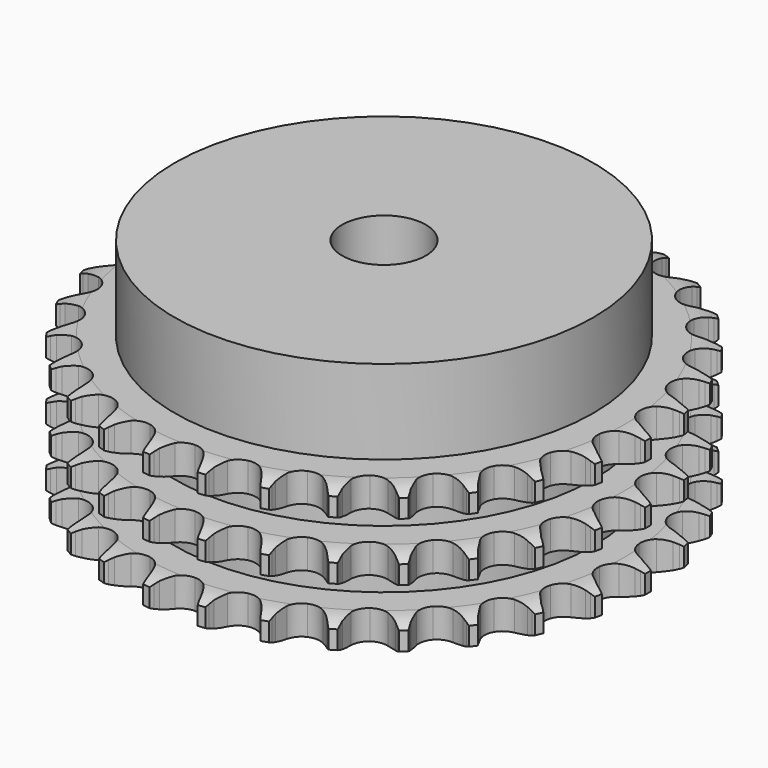
from build123d import *

# Parameters (mm, degrees)
PAD_DEPTH         = 34.9
SKETCH001_R       = 50
PAD001_DEPTH      = 55
SKETCH002_R       = 10
POCKET_DEPTH      = 0.001
POCKET_DEPTH_BACK = 55.001


with BuildPart() as part:
    # Sprocket → Pad (new body)
    with BuildSketch(Plane.XY):
        with BuildLine():
            ThreePointArc((-6.747514, 64.19831), (-5.953185, 63.151221), (-5.370742, 61.973039))
            Line((-5.370742, 61.973039), (-4.955769, 60.884432))
            ThreePointArc((-4.955769, 60.884432), (-4.297005, 59.465248), (-3.445613, 58.152548))
            ThreePointArc((-3.445613, 58.152548), (-1.925065, 56.887921), (0, 56.434629))
            ThreePointArc((0, 56.434629), (1.925065, 56.887921), (3.445613, 58.152548))
            ThreePointArc((3.445613, 58.152548), (4.297005, 59.465248), (4.955769, 60.884432))
            Line((4.955769, 60.884432), (5.370742, 61.973039))
            ThreePointArc((5.370742, 61.973039), (5.953185, 63.151221), (6.747514, 64.19831))
            ThreePointArc((6.747514, 64.19831), (7.306783, 63.008952), (7.631541, 61.735419))
            Line((7.631541, 61.735419), (7.811112, 60.584324))
            ThreePointArc((7.811112, 60.584324), (8.160415, 59.059188), (8.720276, 57.598159))
            ThreePointArc((8.720276, 57.598159), (9.944666, 56.045027), (11.733419, 55.201397))
            ThreePointArc((11.733419, 55.201397), (13.710661, 55.24454), (15.460913, 56.165392))
            Line((15.460913, 56.165392), (17.506058, 58.523599))
            ThreePointArc((17.506058, 58.523599), (17.809357, 59.021153), (18.138297, 59.502139))
            ThreePointArc((18.138297, 59.502139), (18.952971, 60.533479), (19.947644, 61.392536))
            ThreePointArc((19.947644, 61.392536), (20.24741, 60.11289), (20.300289, 58.799666))
            Line((20.300289, 58.799666), (20.23661, 57.636389))
            ThreePointArc((20.23661, 57.636389), (20.261186, 56.071957), (20.505048, 54.526453))
            ThreePointArc((20.505048, 54.526453), (21.379768, 52.752696), (22.954031, 51.555599))
            ThreePointArc((22.954031, 51.555599), (24.897036, 51.186708), (26.800496, 51.723539))
            Line((26.800496, 51.723539), (29.291249, 53.605004))
            ThreePointArc((29.291249, 53.605004), (29.691367, 54.028626), (30.113122, 54.430711))
            ThreePointArc((30.113122, 54.430711), (31.124421, 55.270133), (32.275966, 55.903613))
            ThreePointArc((32.275966, 55.903613), (32.303129, 54.589606), (32.081817, 53.294084))
            Line((32.081817, 53.294084), (31.77767, 52.169468))
            ThreePointArc((31.77767, 52.169468), (31.476446, 50.634113), (31.393651, 49.07168))
            ThreePointArc((31.393651, 49.07168), (31.880471, 47.15482), (33.171442, 45.656574))
            ThreePointArc((33.171442, 45.656574), (34.995291, 44.89177), (36.96877, 45.021119))
            Line((36.96877, 45.021119), (39.796272, 46.343613))
            ThreePointArc((39.796272, 46.343613), (40.275723, 46.674788), (40.77186, 46.980399))
            ThreePointArc((40.77186, 46.980399), (41.935584, 47.591217), (43.193674, 47.971434))
            ThreePointArc((43.193674, 47.971434), (42.947045, 46.680494), (42.461216, 45.459296))
            Line((42.461216, 45.459296), (41.929894, 44.422491))
            ThreePointArc((41.929894, 44.422491), (41.316034, 42.983315), (40.9102, 41.472239))
            ThreePointArc((40.9102, 41.472239), (40.987845, 39.496051), (41.939102, 37.762137))
            ThreePointArc((41.939102, 37.762137), (43.564084, 36.634847), (45.52133, 36.35106))
            Line((45.52133, 36.35106), (48.562007, 37.056783))
            ThreePointArc((48.562007, 37.056783), (49.099836, 37.281038), (49.648671, 37.476818))
            ThreePointArc((49.648671, 37.476818), (50.913962, 37.832336), (52.22361, 37.942674))
            ThreePointArc((52.22361, 37.942674), (51.713969, 36.73122), (50.984855, 35.637718))
            Line((50.984855, 35.637718), (50.249581, 34.734038))
            ThreePointArc((50.249581, 34.734038), (49.349913, 33.45394), (48.638777, 32.060262))
            ThreePointArc((48.638777, 32.060262), (48.303853, 30.111116), (48.873822, 28.217314))
            ThreePointArc((48.873822, 28.217314), (50.228917, 26.776806), (52.08439, 26.092286))
            Line((52.08439, 26.092286), (55.205349, 26.150395))
            ThreePointArc((55.205349, 26.150395), (55.77805, 26.257929), (56.355597, 26.335321))
            ThreePointArc((56.355597, 26.335321), (57.667154, 26.420001), (58.971124, 26.255636))
            ThreePointArc((58.971124, 26.255636), (58.220745, 25.176616), (57.280212, 24.258601))
            Line((57.280212, 24.258601), (56.373119, 23.52754))
            ThreePointArc((56.373119, 23.52754), (55.226964, 22.462467), (54.241607, 21.247098))
            ThreePointArc((54.241607, 21.247098), (53.50875, 19.41018), (53.672521, 17.439259))
            ThreePointArc((53.672521, 17.439259), (54.698506, 15.748489), (56.371113, 14.693153))
            Line((56.371113, 14.693153), (59.435953, 14.101108))
            ThreePointArc((59.435953, 14.101108), (60.018496, 14.087221), (60.599513, 14.042844))
            ThreePointArc((60.599513, 14.042844), (61.900016, 13.852985), (63.141318, 13.421101))
            ThreePointArc((63.141318, 13.421101), (62.182995, 12.521673), (61.072149, 11.819267))
            Line((61.072149, 11.819267), (60.032882, 11.292776))
            ThreePointArc((60.032882, 11.292776), (58.690332, 10.489277), (57.473818, 9.505334))
            ThreePointArc((57.473818, 9.505334), (56.375059, 7.860926), (56.125474, 5.899025))
            ThreePointArc((56.125474, 5.899025), (56.777507, 4.031888), (58.194147, 2.651859))
            Line((58.194147, 2.651859), (61.06892, 1.435536))
            ThreePointArc((61.06892, 1.435536), (61.635846, 1.300834), (62.19494, 1.136626))
            ThreePointArc((62.19494, 1.136626), (63.427549, 0.680527), (64.551932, 0))
            ThreePointArc((64.551932, 0), (63.427549, -0.680527), (62.19494, -1.136626))
            Line((62.19494, -1.136626), (61.06892, -1.435536))
            ThreePointArc((61.06892, -1.435536), (59.588651, -1.942345), (58.194147, -2.651859))
            ThreePointArc((58.194147, -2.651859), (56.777507, -4.031888), (56.125474, -5.899025))
            ThreePointArc((56.125474, -5.899025), (56.375059, -7.860926), (57.473818, -9.505334))
            Line((57.473818, -9.505334), (60.032882, -11.292776))
            ThreePointArc((60.032882, -11.292776), (60.559414, -11.542405), (61.072149, -11.819267))
            ThreePointArc((61.072149, -11.819267), (62.182995, -12.521673), (63.141318, -13.421101))
            ThreePointArc((63.141318, -13.421101), (61.900016, -13.852985), (60.599513, -14.042844))
            Line((60.599513, -14.042844), (59.435953, -14.101108))
            ThreePointArc((59.435953, -14.101108), (57.88266, -14.289077), (56.371113, -14.693153))
            ThreePointArc((56.371113, -14.693153), (54.698506, -15.748489), (53.672521, -17.439259))
            ThreePointArc((53.672521, -17.439259), (53.50875, -19.41018), (54.241607, -21.247098))
            Line((54.241607, -21.247098), (56.373119, -23.52754))
            ThreePointArc((56.373119, -23.52754), (56.836244, -23.881186), (57.280212, -24.258601))
            ThreePointArc((57.280212, -24.258601), (58.220745, -25.176616), (58.971124, -26.255636))
            ThreePointArc((58.971124, -26.255636), (57.667154, -26.420001), (56.355597, -26.335321))
            Line((56.355597, -26.335321), (55.205349, -26.150395))
            ThreePointArc((55.205349, -26.150395), (53.646919, -26.011308), (52.08439, -26.092286))
            ThreePointArc((52.08439, -26.092286), (50.228917, -26.776806), (48.873822, -28.217314))
            ThreePointArc((48.873822, -28.217314), (48.303853, -30.111116), (48.638777, -32.060262))
            Line((48.638777, -32.060262), (50.249581, -34.734038))
            ThreePointArc((50.249581, -34.734038), (50.629058, -35.176244), (50.984855, -35.637718))
            ThreePointArc((50.984855, -35.637718), (51.713969, -36.73122), (52.22361, -37.942674))
            ThreePointArc((52.22361, -37.942674), (50.913962, -37.832336), (49.648671, -37.476818))
            Line((49.648671, -37.476818), (48.562007, -37.056783))
            ThreePointArc((48.562007, -37.056783), (47.06655, -36.59672), (45.52133, -36.35106))
            ThreePointArc((45.52133, -36.35106), (43.564084, -36.634847), (41.939102, -37.762137))
            ThreePointArc((41.939102, -37.762137), (40.987845, -39.496051), (40.9102, -41.472239))
            Line((40.9102, -41.472239), (41.929894, -44.422491))
            ThreePointArc((41.929894, -44.422491), (42.209139, -44.933932), (42.461216, -45.459296))
            ThreePointArc((42.461216, -45.459296), (42.947045, -46.680494), (43.193674, -47.971434))
            ThreePointArc((43.193674, -47.971434), (41.935584, -47.591217), (40.77186, -46.980399))
            Line((40.77186, -46.980399), (39.796272, -46.343613))
            ThreePointArc((39.796272, -46.343613), (38.429146, -45.58268), (36.96877, -45.021119))
            ThreePointArc((36.96877, -45.021119), (34.995291, -44.89177), (33.171442, -45.656574))
            ThreePointArc((33.171442, -45.656574), (31.880471, -47.15482), (31.393651, -49.07168))
            Line((31.393651, -49.07168), (31.77767, -52.169468))
            ThreePointArc((31.77767, -52.169468), (31.944479, -52.727791), (32.081817, -53.294084))
            ThreePointArc((32.081817, -53.294084), (32.303129, -54.589606), (32.275966, -55.903613))
            ThreePointArc((32.275966, -55.903613), (31.124421, -55.270133), (30.113122, -54.430711))
            Line((30.113122, -54.430711), (29.291249, -53.605004))
            ThreePointArc((29.291249, -53.605004), (28.112205, -52.576458), (26.800496, -51.723539))
            ThreePointArc((26.800496, -51.723539), (24.897036, -51.186708), (22.954031, -51.555599))
            ThreePointArc((22.954031, -51.555599), (21.379768, -52.752696), (20.505048, -54.526453))
            Line((20.505048, -54.526453), (20.23661, -57.636389))
            ThreePointArc((20.23661, -57.636389), (20.283691, -58.217193), (20.300289, -58.799666))
            ThreePointArc((20.300289, -58.799666), (20.24741, -60.11289), (19.947644, -61.392536))
            ThreePointArc((19.947644, -61.392536), (18.952971, -60.533479), (18.138297, -59.502139))
            Line((18.138297, -59.502139), (17.506058, -58.523599))
            ThreePointArc((17.506058, -58.523599), (16.566626, -57.272392), (15.460913, -56.165392))
            ThreePointArc((15.460913, -56.165392), (13.710661, -55.24454), (11.733419, -55.201397))
            ThreePointArc((11.733419, -55.201397), (9.944666, -56.045027), (8.720276, -57.598159))
            Line((8.720276, -57.598159), (7.811112, -60.584324))
            ThreePointArc((7.811112, -60.584324), (7.736409, -61.162224), (7.631541, -61.735419))
            ThreePointArc((7.631541, -61.735419), (7.306783, -63.008952), (6.747514, -64.19831))
            ThreePointArc((6.747514, -64.19831), (5.953185, -63.151221), (5.370742, -61.973039))
            Line((5.370742, -61.973039), (4.955769, -60.884432))
            ThreePointArc((4.955769, -60.884432), (4.297005, -59.465248), (3.445613, -58.152548))
            ThreePointArc((3.445613, -58.152548), (1.925065, -56.887921), (0, -56.434629))
            ThreePointArc((0, -56.434629), (-1.925065, -56.887921), (-3.445613, -58.152548))
            Line((-3.445613, -58.152548), (-4.955769, -60.884432))
            ThreePointArc((-4.955769, -60.884432), (-5.148992, -61.434173), (-5.370742, -61.973039))
            ThreePointArc((-5.370742, -61.973039), (-5.953185, -63.151221), (-6.747514, -64.19831))
            ThreePointArc((-6.747514, -64.19831), (-7.306783, -63.008952), (-7.631541, -61.735419))
            Line((-7.631541, -61.735419), (-7.811112, -60.584324))
            ThreePointArc((-7.811112, -60.584324), (-8.160415, -59.059188), (-8.720276, -57.598159))
            ThreePointArc((-8.720276, -57.598159), (-9.944666, -56.045027), (-11.733419, -55.201397))
            ThreePointArc((-11.733419, -55.201397), (-13.710661, -55.24454), (-15.460913, -56.165392))
            Line((-15.460913, -56.165392), (-17.506058, -58.523599))
            ThreePointArc((-17.506058, -58.523599), (-17.809357, -59.021153), (-18.138297, -59.502139))
            ThreePointArc((-18.138297, -59.502139), (-18.952971, -60.533479), (-19.947644, -61.392536))
            ThreePointArc((-19.947644, -61.392536), (-20.24741, -60.11289), (-20.300289, -58.799666))
            Line((-20.300289, -58.799666), (-20.23661, -57.636389))
            ThreePointArc((-20.23661, -57.636389), (-20.261186, -56.071957), (-20.505048, -54.526453))
            ThreePointArc((-20.505048, -54.526453), (-21.379768, -52.752696), (-22.954031, -51.555599))
            ThreePointArc((-22.954031, -51.555599), (-24.897036, -51.186708), (-26.800496, -51.723539))
            Line((-26.800496, -51.723539), (-29.291249, -53.605004))
            ThreePointArc((-29.291249, -53.605004), (-29.691367, -54.028626), (-30.113122, -54.430711))
            ThreePointArc((-30.113122, -54.430711), (-31.124421, -55.270133), (-32.275966, -55.903613))
            ThreePointArc((-32.275966, -55.903613), (-32.303129, -54.589606), (-32.081817, -53.294084))
            Line((-32.081817, -53.294084), (-31.77767, -52.169468))
            ThreePointArc((-31.77767, -52.169468), (-31.476446, -50.634113), (-31.393651, -49.07168))
            ThreePointArc((-31.393651, -49.07168), (-31.880471, -47.15482), (-33.171442, -45.656574))
            ThreePointArc((-33.171442, -45.656574), (-34.995291, -44.89177), (-36.96877, -45.021119))
            Line((-36.96877, -45.021119), (-39.796272, -46.343613))
            ThreePointArc((-39.796272, -46.343613), (-40.275723, -46.674788), (-40.77186, -46.980399))
            ThreePointArc((-40.77186, -46.980399), (-41.935584, -47.591217), (-43.193674, -47.971434))
            ThreePointArc((-43.193674, -47.971434), (-42.947045, -46.680494), (-42.461216, -45.459296))
            Line((-42.461216, -45.459296), (-41.929894, -44.422491))
            ThreePointArc((-41.929894, -44.422491), (-41.316034, -42.983315), (-40.9102, -41.472239))
            ThreePointArc((-40.9102, -41.472239), (-40.987845, -39.496051), (-41.939102, -37.762137))
            ThreePointArc((-41.939102, -37.762137), (-43.564084, -36.634847), (-45.52133, -36.35106))
            Line((-45.52133, -36.35106), (-48.562007, -37.056783))
            ThreePointArc((-48.562007, -37.056783), (-49.099836, -37.281038), (-49.648671, -37.476818))
            ThreePointArc((-49.648671, -37.476818), (-50.913962, -37.832336), (-52.22361, -37.942674))
            ThreePointArc((-52.22361, -37.942674), (-51.713969, -36.73122), (-50.984855, -35.637718))
            Line((-50.984855, -35.637718), (-50.249581, -34.734038))
            ThreePointArc((-50.249581, -34.734038), (-49.349913, -33.45394), (-48.638777, -32.060262))
            ThreePointArc((-48.638777, -32.060262), (-48.303853, -30.111116), (-48.873822, -28.217314))
            ThreePointArc((-48.873822, -28.217314), (-50.228917, -26.776806), (-52.08439, -26.092286))
            Line((-52.08439, -26.092286), (-55.205349, -26.150395))
            ThreePointArc((-55.205349, -26.150395), (-55.77805, -26.257929), (-56.355597, -26.335321))
            ThreePointArc((-56.355597, -26.335321), (-57.667154, -26.420001), (-58.971124, -26.255636))
            ThreePointArc((-58.971124, -26.255636), (-58.220745, -25.176616), (-57.280212, -24.258601))
            Line((-57.280212, -24.258601), (-56.373119, -23.52754))
            ThreePointArc((-56.373119, -23.52754), (-55.226964, -22.462467), (-54.241607, -21.247098))
            ThreePointArc((-54.241607, -21.247098), (-53.50875, -19.41018), (-53.672521, -17.439259))
            ThreePointArc((-53.672521, -17.439259), (-54.698506, -15.748489), (-56.371113, -14.693153))
            Line((-56.371113, -14.693153), (-59.435953, -14.101108))
            ThreePointArc((-59.435953, -14.101108), (-60.018496, -14.087221), (-60.599513, -14.042844))
            ThreePointArc((-60.599513, -14.042844), (-61.900016, -13.852985), (-63.141318, -13.421101))
            ThreePointArc((-63.141318, -13.421101), (-62.182995, -12.521673), (-61.072149, -11.819267))
            Line((-61.072149, -11.819267), (-60.032882, -11.292776))
            ThreePointArc((-60.032882, -11.292776), (-58.690332, -10.489277), (-57.473818, -9.505334))
            ThreePointArc((-57.473818, -9.505334), (-56.375059, -7.860926), (-56.125474, -5.899025))
            ThreePointArc((-56.125474, -5.899025), (-56.777507, -4.031888), (-58.194147, -2.651859))
            Line((-58.194147, -2.651859), (-61.06892, -1.435536))
            ThreePointArc((-61.06892, -1.435536), (-61.635846, -1.300834), (-62.19494, -1.136626))
            ThreePointArc((-62.19494, -1.136626), (-63.427549, -0.680527), (-64.551932, 0))
            ThreePointArc((-64.551932, 0), (-63.427549, 0.680527), (-62.19494, 1.136626))
            Line((-62.19494, 1.136626), (-61.06892, 1.435536))
            ThreePointArc((-61.06892, 1.435536), (-59.588651, 1.942345), (-58.194147, 2.651859))
            ThreePointArc((-58.194147, 2.651859), (-56.777507, 4.031888), (-56.125474, 5.899025))
            ThreePointArc((-56.125474, 5.899025), (-56.375059, 7.860926), (-57.473818, 9.505334))
            Line((-57.473818, 9.505334), (-60.032882, 11.292776))
            ThreePointArc((-60.032882, 11.292776), (-60.559414, 11.542405), (-61.072149, 11.819267))
            ThreePointArc((-61.072149, 11.819267), (-62.182995, 12.521673), (-63.141318, 13.421101))
            ThreePointArc((-63.141318, 13.421101), (-61.900016, 13.852985), (-60.599513, 14.042844))
            Line((-60.599513, 14.042844), (-59.435953, 14.101108))
            ThreePointArc((-59.435953, 14.101108), (-57.88266, 14.289077), (-56.371113, 14.693153))
            ThreePointArc((-56.371113, 14.693153), (-54.698506, 15.748489), (-53.672521, 17.439259))
            ThreePointArc((-53.672521, 17.439259), (-53.50875, 19.41018), (-54.241607, 21.247098))
            Line((-54.241607, 21.247098), (-56.373119, 23.52754))
            ThreePointArc((-56.373119, 23.52754), (-56.836244, 23.881186), (-57.280212, 24.258601))
            ThreePointArc((-57.280212, 24.258601), (-58.220745, 25.176616), (-58.971124, 26.255636))
            ThreePointArc((-58.971124, 26.255636), (-57.667154, 26.420001), (-56.355597, 26.335321))
            Line((-56.355597, 26.335321), (-55.205349, 26.150395))
            ThreePointArc((-55.205349, 26.150395), (-53.646919, 26.011308), (-52.08439, 26.092286))
            ThreePointArc((-52.08439, 26.092286), (-50.228917, 26.776806), (-48.873822, 28.217314))
            ThreePointArc((-48.873822, 28.217314), (-48.303853, 30.111116), (-48.638777, 32.060262))
            Line((-48.638777, 32.060262), (-50.249581, 34.734038))
            ThreePointArc((-50.249581, 34.734038), (-50.629058, 35.176244), (-50.984855, 35.637718))
            ThreePointArc((-50.984855, 35.637718), (-51.713969, 36.73122), (-52.22361, 37.942674))
            ThreePointArc((-52.22361, 37.942674), (-50.913962, 37.832336), (-49.648671, 37.476818))
            Line((-49.648671, 37.476818), (-48.562007, 37.056783))
            ThreePointArc((-48.562007, 37.056783), (-47.06655, 36.59672), (-45.52133, 36.35106))
            ThreePointArc((-45.52133, 36.35106), (-43.564084, 36.634847), (-41.939102, 37.762137))
            ThreePointArc((-41.939102, 37.762137), (-40.987845, 39.496051), (-40.9102, 41.472239))
            Line((-40.9102, 41.472239), (-41.929894, 44.422491))
            ThreePointArc((-41.929894, 44.422491), (-42.209139, 44.933932), (-42.461216, 45.459296))
            ThreePointArc((-42.461216, 45.459296), (-42.947045, 46.680494), (-43.193674, 47.971434))
            ThreePointArc((-43.193674, 47.971434), (-41.935584, 47.591217), (-40.77186, 46.980399))
            Line((-40.77186, 46.980399), (-39.796272, 46.343613))
            ThreePointArc((-39.796272, 46.343613), (-38.429146, 45.58268), (-36.96877, 45.021119))
            ThreePointArc((-36.96877, 45.021119), (-34.995291, 44.89177), (-33.171442, 45.656574))
            ThreePointArc((-33.171442, 45.656574), (-31.880471, 47.15482), (-31.393651, 49.07168))
            Line((-31.393651, 49.07168), (-31.77767, 52.169468))
            ThreePointArc((-31.77767, 52.169468), (-31.944479, 52.727791), (-32.081817, 53.294084))
            ThreePointArc((-32.081817, 53.294084), (-32.303129, 54.589606), (-32.275966, 55.903613))
            ThreePointArc((-32.275966, 55.903613), (-31.124421, 55.270133), (-30.113122, 54.430711))
            Line((-30.113122, 54.430711), (-29.291249, 53.605004))
            ThreePointArc((-29.291249, 53.605004), (-28.112205, 52.576458), (-26.800496, 51.723539))
            ThreePointArc((-26.800496, 51.723539), (-24.897036, 51.186708), (-22.954031, 51.555599))
            ThreePointArc((-22.954031, 51.555599), (-21.379768, 52.752696), (-20.505048, 54.526453))
            Line((-20.505048, 54.526453), (-20.23661, 57.636389))
            ThreePointArc((-20.23661, 57.636389), (-20.283691, 58.217193), (-20.300289, 58.799666))
            ThreePointArc((-20.300289, 58.799666), (-20.24741, 60.11289), (-19.947644, 61.392536))
            ThreePointArc((-19.947644, 61.392536), (-18.952971, 60.533479), (-18.138297, 59.502139))
            Line((-18.138297, 59.502139), (-17.506058, 58.523599))
            ThreePointArc((-17.506058, 58.523599), (-16.566626, 57.272392), (-15.460913, 56.165392))
            ThreePointArc((-15.460913, 56.165392), (-13.710661, 55.24454), (-11.733419, 55.201397))
            ThreePointArc((-11.733419, 55.201397), (-9.944666, 56.045027), (-8.720276, 57.598159))
            Line((-8.720276, 57.598159), (-7.811112, 60.584324))
            ThreePointArc((-7.811112, 60.584324), (-7.736409, 61.162224), (-7.631541, 61.735419))
            ThreePointArc((-7.631541, 61.735419), (-7.306783, 63.008952), (-6.747514, 64.19831))
        make_face()
    extrude(amount=PAD_DEPTH)

    # Sketch → Groove (revolve, cut)
    with BuildSketch(Plane.XZ):
        with BuildLine():
            ThreePointArc((57.383431, 0), (60.29032, 0.329167), (63.05, 1.3))
            Line((63.05, 1.3), (63.05, 5.7))
            ThreePointArc((63.05, 5.7), (60.29032, 6.670833), (57.383431, 7))
            Line((50, 7), (57.383431, 7))
            Line((50, 7), (50, 13.95))
            Line((50, 13.95), (57.383431, 13.95))
            ThreePointArc((57.383431, 13.95), (60.29032, 14.279167), (63.05, 15.25))
            Line((63.05, 19.65), (63.05, 15.25))
            ThreePointArc((63.05, 19.65), (60.29032, 20.620833), (57.383431, 20.95))
            Line((50, 20.95), (57.383431, 20.95))
            Line((50, 27.9), (50, 20.95))
            Line((57.383431, 27.9), (50, 27.9))
            ThreePointArc((57.383431, 27.9), (60.29032, 28.229167), (63.05, 29.2))
            Line((63.05, 29.2), (63.05, 33.6))
            ThreePointArc((63.05, 33.6), (60.29032, 34.570833), (57.383431, 34.9))
            Line((57.383431, 34.9), (73.05, 34.9))
            Line((73.05, 34.9), (73.05, 0))
            Line((57.383431, 0), (73.05, 0))
        make_face()
    revolve(axis=Axis((0, 0, 0), (0, 0, 1)), mode=Mode.SUBTRACT)

    # Sketch001 → Pad001 (join)
    with BuildSketch(Plane.XY):
        Circle(SKETCH001_R)
    extrude(amount=PAD001_DEPTH)

    # Sketch002 → Pocket (cut, two sides)
    with BuildSketch(Plane.XY) as pocket_sk:
        Circle(SKETCH002_R)
    extrude(amount=-POCKET_DEPTH, mode=Mode.SUBTRACT)
    extrude(pocket_sk.sketch, amount=POCKET_DEPTH_BACK, mode=Mode.SUBTRACT)


solid = part.part
